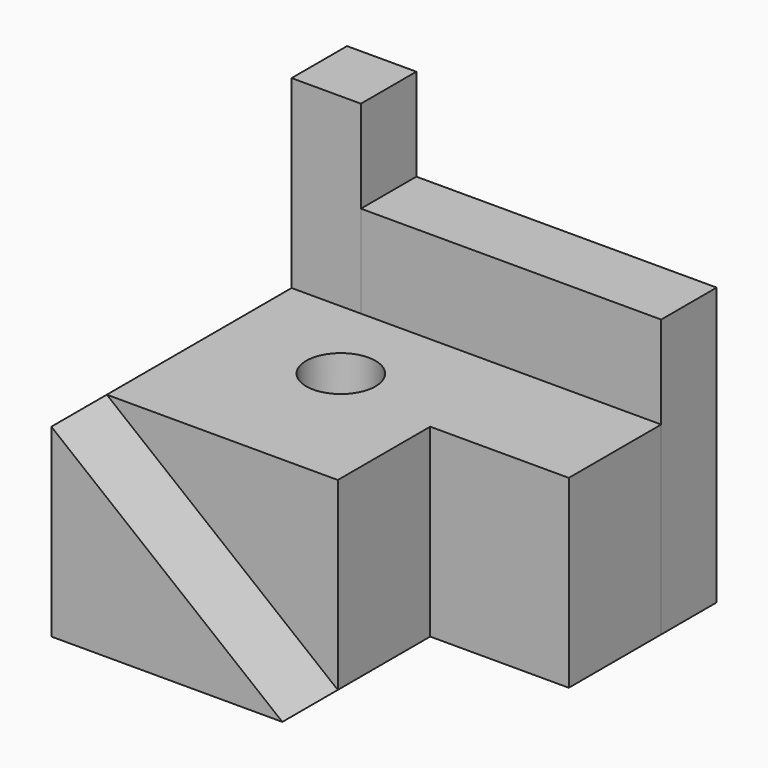
from build123d import *

# Parameters (mm, degrees)
F1_DEPTH = 15
F3_DEPTH = 40
F4_W     = 15
F4_H     = 15
F5_DEPTH = 80
F6_W     = 65
F6_H     = 15
F7_DEPTH = 60
F8_R     = 7.5
F9_DEPTH = 40


with BuildPart() as f1:
    # F0 (on Front) → F1 (new body)
    with BuildSketch(Plane.XZ):
        Polygon((0, 40), (0, 0), (50, 0), align=None)
    extrude(amount=F1_DEPTH)


with BuildPart() as f3:
    # F2 (on Top) → F3 (new body)
    with BuildSketch(Plane.XY):
        Polygon((0, 50), (0, 0), (50, 0), (50, 25), (80, 25), (80, 50), align=None)
    extrude(amount=F3_DEPTH)

    # F8 (on Top) → F9 (cut, through all)
    with BuildSketch(Plane.XY):
        with Locations((26.066808, 30.744)):
            Circle(F8_R)
    extrude(amount=F9_DEPTH, mode=Mode.SUBTRACT)


with BuildPart() as f5:
    # F4 (on Top) → F5 (new body)
    with BuildSketch(Plane.XY):
        with Locations((7.5, 57.5)):
            Rectangle(F4_W, F4_H)
    extrude(amount=F5_DEPTH)


with BuildPart() as f7:
    # F6 (on Top) → F7 (new body)
    with BuildSketch(Plane.XY):
        with Locations((47.5, 57.5)):
            Rectangle(F6_W, F6_H)
    extrude(amount=F7_DEPTH)


solid = Compound([f1.part, f3.part, f5.part, f7.part])
